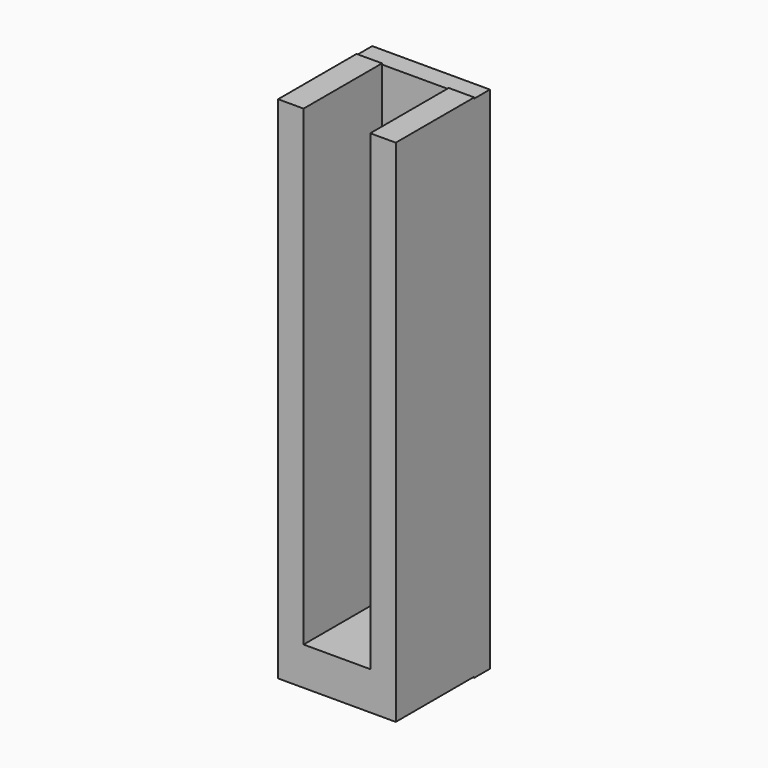
from build123d import *

# Parameters (mm, degrees)
F1_DEPTH       = 25
F2_R           = 1.2421542977
F3_DEPTH       = 5
F4_D           = 5
F4_CSINK_D     = 9
F4_CSINK_ANGLE = 90


with BuildPart() as f1:
    # F0 (on Front) → F1 (new body)
    with BuildSketch(Plane.XZ):
        Polygon((-8.5, -60), (-8.5, 60.2744125164), (-15, 60.2744125164), (-15, -69.7255874836), (15, -69.7255874836), (15, 60.2744125164), (8.5, 60.2744125164), (8.5, -60), align=None)
    extrude(amount=F1_DEPTH)

    # F2 (on Front) → F3 (join)
    with BuildSketch(Plane.XZ):
        Polygon((15, -70), (15, 0), (15, 60), (-15, 60), (-15, 0), (-15, -70), align=None)
        with Locations((0, -30)):
            Circle(F2_R, mode=Mode.SUBTRACT)
    extrude(amount=-F3_DEPTH)

    # F4 (through all)
    with Locations(Plane.XZ):
        with Locations((0, 30), (0, -30)):
            CounterSinkHole(F4_D / 2, F4_CSINK_D / 2, counter_sink_angle=F4_CSINK_ANGLE)


solid = f1.part
